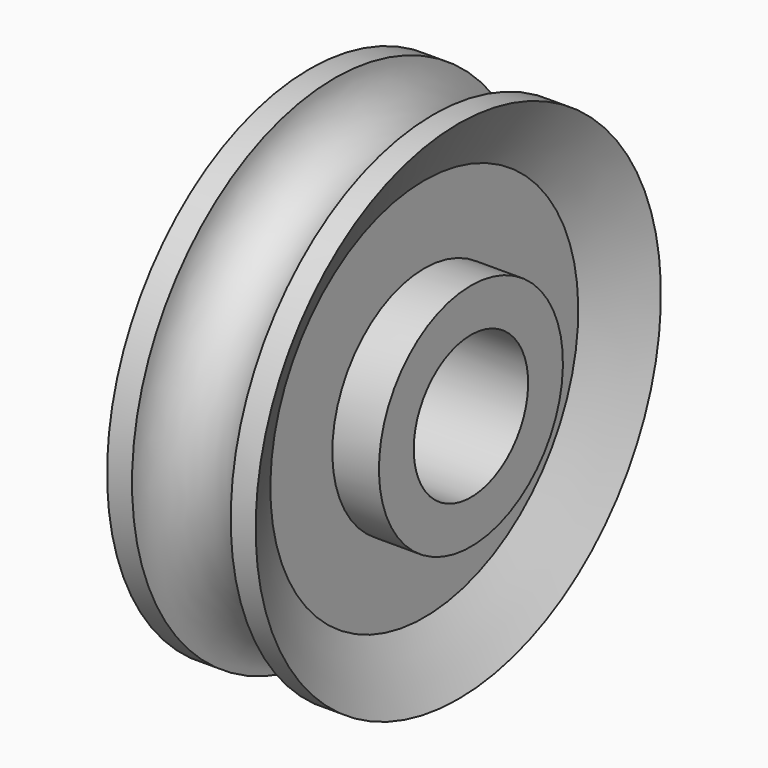
from build123d import *


with BuildPart() as f1:
    # F0 (on Front) → F1 (revolve)
    with BuildSketch(Plane.XZ):
        with BuildLine():
            Line((-20.162888, 16.588558), (0, 16.588558))
            Line((0, 16.588558), (20.162888, 16.588558))
            Line((20.162888, 16.588558), (20.162888, 26.670001))
            Line((20.162888, 26.670001), (9.348246, 26.670001))
            Line((9.348246, 26.670001), (9.348246, 44.633299))
            Line((9.348246, 44.633299), (17.230105, 58.747321))
            Line((17.230105, 58.747321), (11.444079, 58.747321))
            ThreePointArc((11.444079, 58.747321), (0, 47.303243), (-11.444079, 58.747321))
            Line((-11.444079, 58.747321), (-17.230105, 58.747321))
            Line((-17.230105, 58.747321), (-9.348246, 44.633299))
            Line((-9.348246, 44.633299), (-9.348246, 26.670001))
            Line((-9.348246, 26.670001), (-20.162888, 26.670001))
            Line((-20.162888, 26.670001), (-20.162888, 16.588558))
        make_face()
    revolve(axis=Axis((-5.590618, 0, 0), (1, 0, 0)))


solid = f1.part
